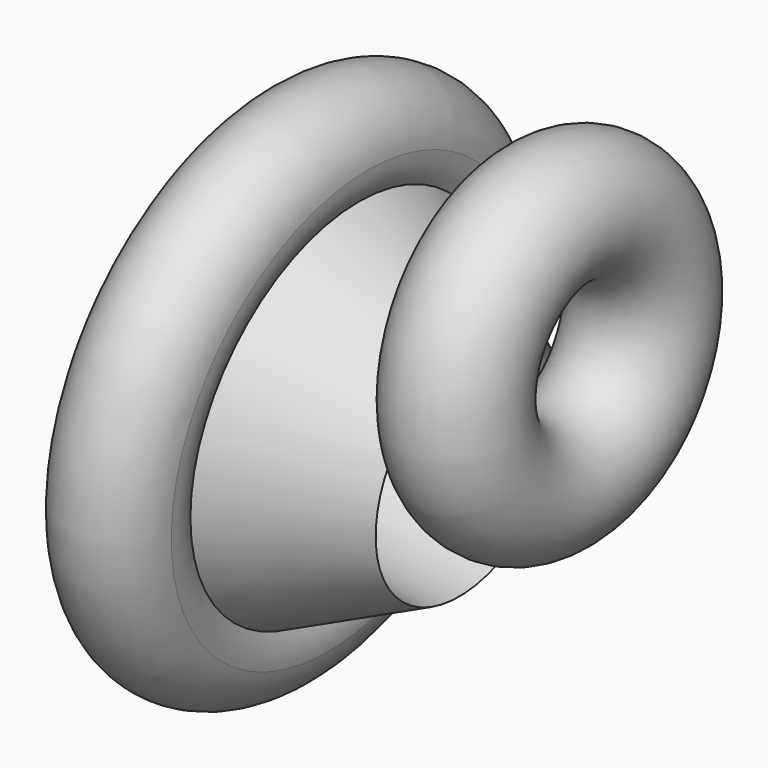
from build123d import *

# Parameters (mm, degrees)
F0_R = 19.046081857
F2_R = 17.4885063439


with BuildPart() as f1:
    # F0 (on Top) → F1 (revolve)
    with BuildSketch(Plane.XY):
        with Locations((14.5638771355, -27.5257192552)):
            Circle(F0_R)
    revolve(axis=Axis((21.8458112795, 8.3014061674, 0), (-1, 0, 0)))

    # F3 (on Front) + F2 (on Front) → F4 (revolve)
    with BuildSketch(Plane.XZ):
        Polygon((0, 0), (-51.4282844961, 34.9749922752), (-74.0372284166, 1.7301185966), align=None)
    with BuildSketch(Plane.XZ):
        with Locations((-51.9923977554, 34.7869545221)):
            Circle(F2_R)
    revolve(axis=Axis((-42.3084618524, 0, -32.1544306353), (0.9958464295, 0, -0.091048827)))


solid = f1.part
